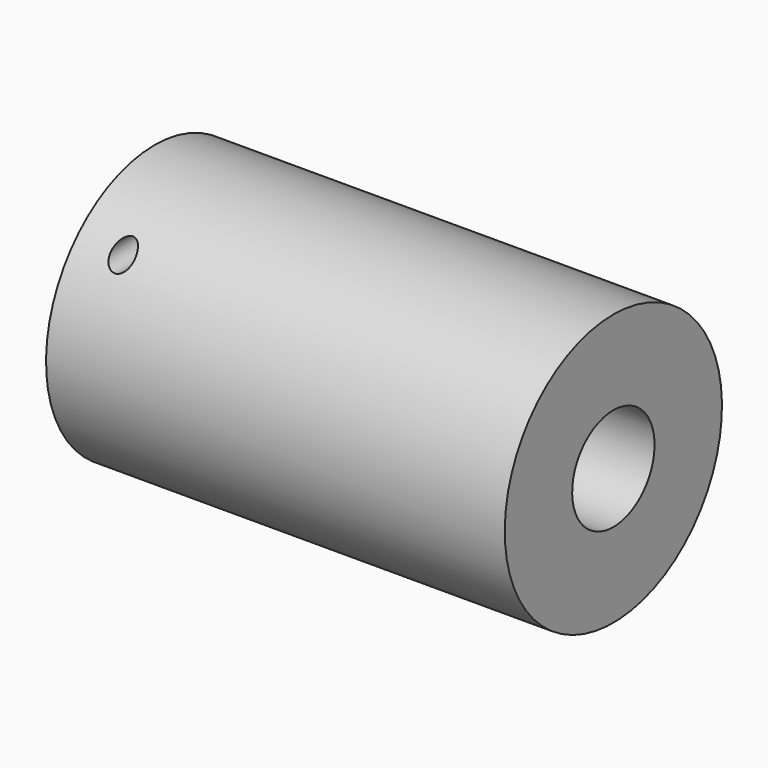
from build123d import *

# Parameters (mm, degrees)
F0_W = 98
F0_H = 18
F4_D = 5


with BuildPart() as f1:
    # F0 (on Front) → F1 (revolve)
    with BuildSketch(Plane.XZ):
        with Locations((0, 20)):
            Rectangle(F0_W, F0_H)
    revolve(axis=Axis((28.6287, 0, 0), (1, 0, 0)))

    # F4 (through all)
    with Locations(Plane.XZ.offset(25)):
        with Locations((-39, 20)):
            Hole(F4_D / 2)


solid = f1.part
